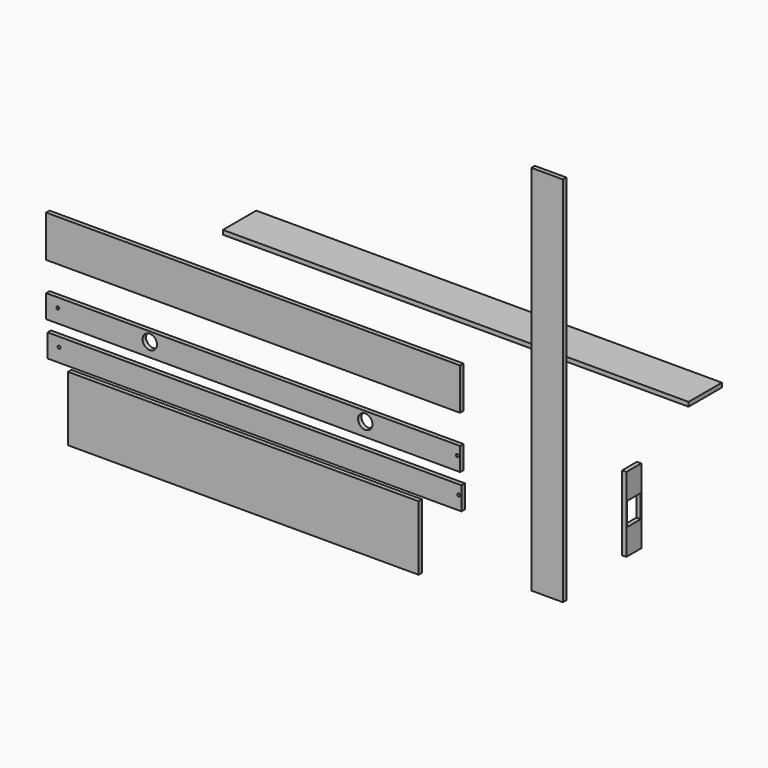
from build123d import *

# Parameters (mm, degrees)
F0_W      = 139.7
F0_H      = 1644.65
F1_DEPTH  = 19.05
F2_W      = 2057.4
F2_H      = 184.15
F3_DEPTH  = 19.05
F4_W      = 1828.8
F4_H      = 184.15
F5_DEPTH  = 19.05
F6_W      = 1828.8
F6_H      = 101.6
F7_DEPTH  = 19.05
F8_W      = 19.05
F8_H      = 330.2
F9_DEPTH  = 82.55
F12_D     = 12.7
F13_W     = 1549.4
F13_H     = 285.75
F14_DEPTH = 19.05
F16_D     = 63.5
F17_W     = 1828.8
F17_H     = 101.6
F18_DEPTH = 19.05
F21_D     = 12.7
F22_W     = 76.2
F22_H     = 101.6
F23_DEPTH = 100.897944


with BuildPart() as f1:
    # F0 (on Front) → F1 (new body)
    with BuildSketch(Plane.XZ):
        Rectangle(F0_W, F0_H)
    extrude(amount=F1_DEPTH)


with BuildPart() as f3:
    # F2 (on Top) → F3 (new body)
    with BuildSketch(Plane.XY):
        with Locations((-545.853794, 250.992194)):
            Rectangle(F2_W, F2_H)
    extrude(amount=F3_DEPTH)


with BuildPart() as f5:
    # F4 (on Front) → F5 (new body)
    with BuildSketch(Plane.XZ):
        with Locations((-1298.957092, -141.23211)):
            Rectangle(F4_W, F4_H)
    extrude(amount=F5_DEPTH)


with BuildPart() as f7:
    # F6 (on Front) → F7 (new body)
    with BuildSketch(Plane.XZ):
        with Locations((-1298.39335, -412.956412)):
            Rectangle(F6_W, F6_H)
    extrude(amount=F7_DEPTH)

    # F12 (through all)
    with Locations(Plane.XZ.offset(19.05)):
        with Locations((-2161.984682, -403.406918), (-396.658272, -403.432995)):
            Hole(F12_D / 2)

    # F16 (through all)
    with Locations(Plane.XZ.offset(19.05)):
        with Locations((-803.377569, -403.616726), (-1755.262136, -403.119981)):
            Hole(F16_D / 2)


with BuildPart() as f9:
    # F8 (on Front) → F9 (new body)
    with BuildSketch(Plane.XZ):
        with Locations((391.474263, -347.32341)):
            Rectangle(F8_W, F8_H)
    extrude(amount=F9_DEPTH)

    # F22 (on face) → F23 (cut, through all)
    with BuildSketch(Plane(origin=(381.949263, 0, 0), x_dir=(0, -1, 0), z_dir=(-1, 0, 0))):
        with Locations((41.275, -347.32341)):
            Rectangle(F22_W, F22_H)
    extrude(amount=-F23_DEPTH, mode=Mode.SUBTRACT)


with BuildPart() as f14:
    # F13 (on Front) → F14 (new body)
    with BuildSketch(Plane.XZ):
        with Locations((-1341.881986, -779.88944)):
            Rectangle(F13_W, F13_H)
    extrude(amount=F14_DEPTH)


with BuildPart() as f18:
    # F17 (on Front) → F18 (new body)
    with BuildSketch(Plane.XZ):
        with Locations((-1292.25084, -563.877134)):
            Rectangle(F17_W, F17_H)
    extrude(amount=F18_DEPTH)

    # F21 (through all)
    with Locations(Plane.XZ.offset(19.05)):
        with Locations((-2155.850887, -554.347217), (-390.550882, -554.352105)):
            Hole(F21_D / 2)


solid = Compound([f1.part, f3.part, f5.part, f7.part, f9.part, f14.part, f18.part])
